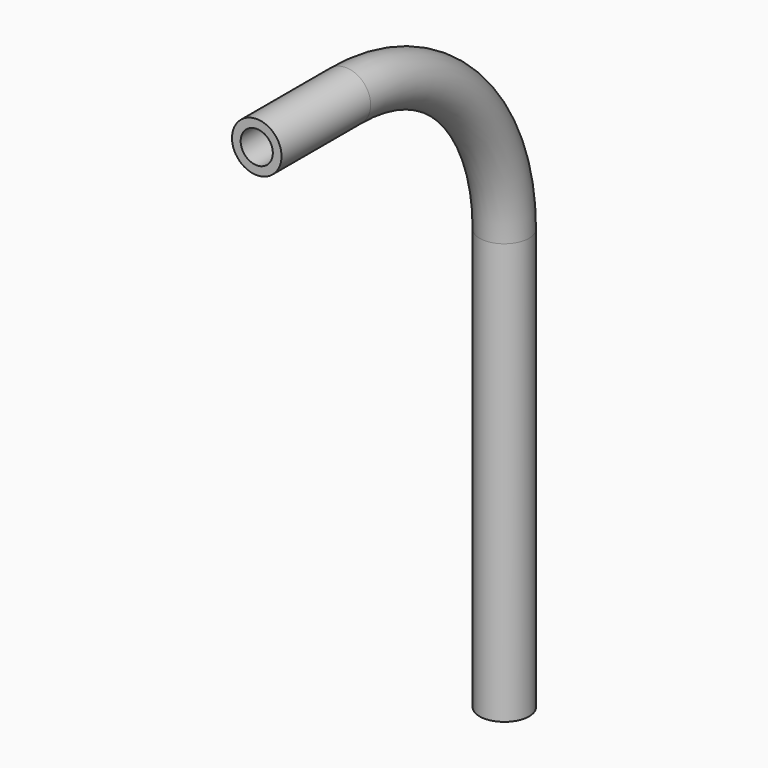
from build123d import *

# Parameters (mm, degrees)
F0_R   = 2
F0_R_2 = 1.3


with BuildPart() as f2:
    # F2: sweep along a path in F1
    with BuildLine(Plane.YZ) as f2_path:
        Line((0, 0), (0, 34))
        ThreePointArc((0, 34), (-4.686291501, 45.313708499), (-16, 50))
        Line((-16, 50), (-25, 50))
    # F0 (on Top) → F2 (sweep)
    with BuildSketch(Plane.XY):
        Circle(F0_R)
        Circle(F0_R_2, mode=Mode.SUBTRACT)
    sweep(path=f2_path.line)


solid = f2.part
